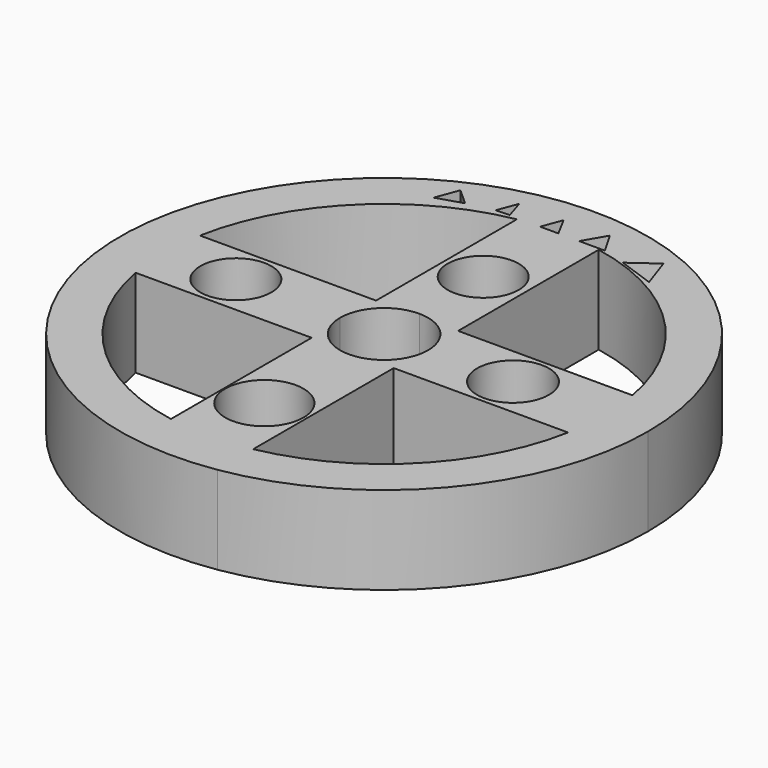
from build123d import *

# Parameters (mm, degrees)
F1_DEPTH = 12.7
F2_R     = 3.365552
F2_R_2   = 3.520723
F2_R_3   = 3.514653
F2_R_4   = 3.746049
F2_R_5   = 3.497554
F2_R_6   = 3.892974
F2_R_7   = 3.939651
F2_R_8   = 10.370237
F2_R_9   = 10.264594
F2_R_10  = 10.264592
F2_R_11  = 11.303067
F3_DEPTH = 12.7


with BuildPart() as f1:
    # F0 (on Top) → F1 (new body, symmetric)
    with BuildSketch(Plane.XY):
        with BuildLine():
            ThreePointArc((12.079931, -75.236396), (57.995391, -49.426457), (76.2, 0))
            ThreePointArc((76.2, 0), (-57.995391, 49.426457), (12.079931, -75.236396))
        make_face()
        with BuildLine():
            ThreePointArc((-11.6058, -62.430405), (-44.890071, -44.912488), (-62.424602, -11.636967))
            Line((-62.424602, -11.636967), (-11.6058, -11.636967))
            Line((-11.6058, -11.636967), (-11.6058, -62.430405))
        make_face(mode=Mode.SUBTRACT)
        with BuildLine():
            Line((12.079931, -62.340398), (12.079931, -11.636967))
            Line((12.079931, -11.636967), (62.424602, -11.636967))
            ThreePointArc((62.424602, -11.636967), (45.060413, -44.741582), (12.079931, -62.340398))
        make_face(mode=Mode.SUBTRACT)
        with BuildLine():
            ThreePointArc((-62.430405, 11.605796), (-44.901282, 44.901279), (-11.6058, 62.430405))
            Line((-11.6058, 62.430405), (-11.6058, 11.605796))
            Line((-11.6058, 11.605796), (-62.430405, 11.605796))
        make_face(mode=Mode.SUBTRACT)
        with BuildLine():
            ThreePointArc((0, 12.7), (8.980256, 8.980256), (12.7, 0))
            ThreePointArc((12.7, 0), (8.980256, -8.980256), (0, -12.7))
            ThreePointArc((0, -12.7), (-8.980256, -8.980256), (-12.7, 0))
            ThreePointArc((-12.7, 0), (-8.980256, 8.980256), (0, 12.7))
        make_face(mode=Mode.SUBTRACT)
        with BuildLine():
            Line((12.079931, 11.605796), (12.079931, 62.340398))
            ThreePointArc((12.079931, 62.340398), (45.071582, 44.73033), (62.430405, 11.605796))
            Line((62.430405, 11.605796), (12.079931, 11.605796))
        make_face(mode=Mode.SUBTRACT)
    extrude(amount=F1_DEPTH, both=True)

    # F2 (on Top) → F3 (cut, symmetric)
    with BuildSketch(Plane.XY):
        with Locations((-39.48367, 31.044669)):
            Circle(F2_R)
        with Locations((-28.732972, 30.837925)):
            Circle(F2_R)
        Polygon((-25.63181, 61.229318), (-30.386927, 65.570951), (-32.867856, 58.955137), align=None)
        Polygon((-14.157661, 63.081107), (-15.914831, 68.672113), (-18.085646, 62.883273), align=None)
        Polygon((0, 62.883273), (-3.096693, 68.672113), (-5.267507, 62.883273), align=None)
        Polygon((9.721447, 69.292344), (6.000051, 62.883273), (13.442842, 62.883273), align=None)
        Polygon((30.809354, 57.094436), (27.708191, 66.191182), (20.265399, 60.815834), align=None)
        with Locations((25.222793, 32.252096)):
            Circle(F2_R_2)
        with Locations((38.661163, 32.045349)):
            Circle(F2_R_3)
        with Locations((-37.420698, -32.44324)):
            Circle(F2_R_4)
        with Locations((-26.049767, -32.44324)):
            Circle(F2_R_5)
        with Locations((20.674419, -34.583465)):
            Circle(F2_R_6)
        with Locations((34.112792, -34.583465)):
            Circle(F2_R_7)
        with Locations((37.213955, 0)):
            Circle(F2_R_8)
        with Locations((-42.796046, 0)):
            Circle(F2_R_9)
        with Locations((0, 35.766747)):
            Circle(F2_R_10)
        with Locations((0, -43.209538)):
            Circle(F2_R_11)
    extrude(amount=F3_DEPTH, both=True, mode=Mode.SUBTRACT)


solid = f1.part
